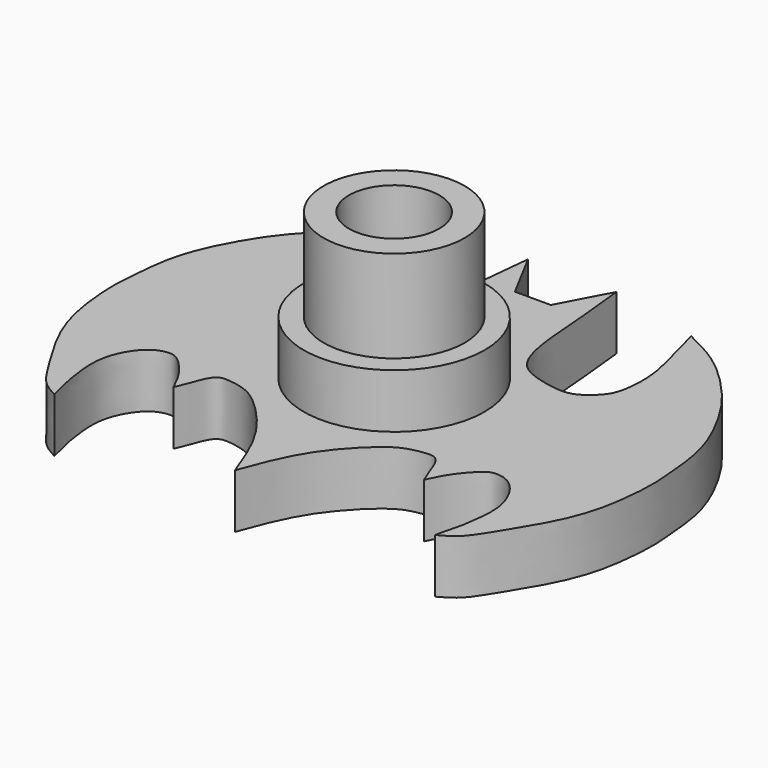
from build123d import *

# Parameters (mm, degrees)
F0_R     = 5
F0_R_2   = 3.9
F1_DEPTH = 3
F2_DEPTH = 8.1
F3_DEPTH = 3
F4_R     = 2.5
F5_DEPTH = 3


with BuildPart() as f1:
    # F0 (on Top) → F1 (new body)
    with BuildSketch(Plane.XY):
        with Locations((0, -2.1439613178)):
            Circle(F0_R)
        with Locations((0, -2.1439613178)):
            Circle(F0_R_2, mode=Mode.SUBTRACT)
    extrude(amount=F1_DEPTH)

    # F0 (on Top) → F2 (join)
    with BuildSketch(Plane.XY):
        with Locations((0, -2.1439613178)):
            Circle(F0_R_2)
    extrude(amount=F2_DEPTH)

    # F0 (on Top) → F3 (join)
    with BuildSketch(Plane.XY):
        with BuildLine():
            add(Edge.make_bspline(
                [(0, -13.1439613178), (-0.4294539751, -11.9775387571), (-1.2548602794, -9.7356860997), (-3.5882204359, -7.3421443207), (-4.6056022039, -6.8652228997), (-5.59644324, -6.6997209592), (-6.0842325755, -6.7992801193), (-6.421690631, -7.3785882809), (-6.6311064449, -8.0463387493), (-6.8279232365, -8.5005663065), (-6.9271689281, -8.7296124548)],
                knots=[0, 0, 0, 0, 0.2171058195, 0.4172752437, 0.53563, 0.6444835629, 0.719822669, 0.8078278946, 0.9030964109, 1, 1, 1, 1], degree=3))
            add(Edge.make_bspline(
                [(0, -13.1439613178), (0.4294539751, -11.9775387571), (1.2548602794, -9.7356860997), (3.5882204359, -7.3421443207), (4.6056022039, -6.8652228997), (5.59644324, -6.6997209592), (6.0842325755, -6.7992801193), (6.421690631, -7.3785882809), (6.6311064449, -8.0463387493), (6.8279232365, -8.5005663065), (6.9271689281, -8.7296124548)],
                knots=[0, 0, 0, 0, 0.2171058195, 0.4172752437, 0.53563, 0.6444835629, 0.719822669, 0.8078278946, 0.9030964109, 1, 1, 1, 1], degree=3))
            add(Edge.make_bspline(
                [(6.9271689281, -8.7296124548), (7.1134929089, -8.3372721452), (7.488074895, -7.5485190726), (8.4570919572, -6.4827882523), (8.9980930935, -6.2932991044), (9.9724452781, -6.500508657), (10.8727144612, -7.758835945), (11.1199759549, -9.1010536806), (10.9823923974, -10.2848723846), (10.8940956062, -10.9875703061), (10.6577894277, -11.9196458914), (10.5168074369, -12.4757289886)],
                knots=[0, 0, 0, 0, 0.1216263724, 0.2445152145, 0.3206449098, 0.4190590878, 0.5466636489, 0.6703863075, 0.7818957274, 0.8698773991, 1, 1, 1, 1], degree=3))
            add(Edge.make_bspline(
                [(10.5168074369, -12.4757289886), (10.8330415271, -12.3060597242), (11.5356636572, -11.9290814551), (12.4027841021, -10.4995830509), (13.8202863847, -8.2507010885), (14.6969099323, -5.9037420567), (14.9485923671, -2.9615572621), (14.8058853863, -1.7001553968), (14.6528648582, 0.4973066476), (13.9146408287, 2.5349021338), (12.9079496989, 4.3074721389), (12.007450278, 5.5740503409), (9.9193860193, 7.7805719205), (8.3232374896, 8.5668020048), (7.5443135574, 8.9504839852)],
                knots=[0, 0, 0, 0, 0.0601980873, 0.1337506285, 0.227468375, 0.3209737133, 0.4178805746, 0.483672317, 0.5673687583, 0.6536556499, 0.7343601906, 0.8066506333, 0.9056450912, 1, 1, 1, 1], degree=3))
            add(Edge.make_bspline(
                [(7.5443135574, 8.9504839852), (7.6389206925, 8.5695326115), (7.8498950971, 7.7200090611), (8.3840108509, 5.8505067231), (8.553692706, 4.5085870534), (8.4155164417, 2.9013441134), (7.9076420532, 2.173278469), (6.9587534427, 1.4073756699), (5.870671358, 1.4751366742), (4.8140044742, 1.7071195914), (3.6439890322, 2.1967111639), (2.9474881014, 3.8856367555), (2.7831740694, 7.0241541467), (2.5569931426, 9.1130622026), (2.4434023071, 10.1621374488)],
                knots=[0, 0, 0, 0, 0.0752703658, 0.1678533083, 0.247860274, 0.3303695231, 0.3931204941, 0.4642847146, 0.532640025, 0.6024355443, 0.6744187279, 0.7611198291, 0.8800314483, 1, 1, 1, 1], degree=3))
            add(Edge.make_bspline(
                [(2.4434023071, 10.1621374488), (1.959738244, 9.254644004), (1.4760741809, 8.3471505592), (0.9924101178, 7.4396571144)],
                knots=[0, 0, 0, 0, 3.0850085096, 3.0850085096, 3.0850085096, 3.0850085096], degree=3))
            add(Edge.make_bspline(
                [(0.9924101178, 7.4396571144), (0.6616067452, 7.4396571144), (0.3308033726, 7.4396571144), (0, 7.4396571144)],
                knots=[0, 0, 0, 0, 0.9924101178, 0.9924101178, 0.9924101178, 0.9924101178], degree=3))
            add(Edge.make_bspline(
                [(-0.9924101178, 7.4396571144), (-0.6616067452, 7.4396571144), (-0.3308033726, 7.4396571144), (0, 7.4396571144)],
                knots=[0, 0, 0, 0, 0.9924101178, 0.9924101178, 0.9924101178, 0.9924101178], degree=3))
            add(Edge.make_bspline(
                [(-2.4434023071, 10.1621374488), (-1.959738244, 9.254644004), (-1.4760741809, 8.3471505592), (-0.9924101178, 7.4396571144)],
                knots=[0, 0, 0, 0, 3.0850085096, 3.0850085096, 3.0850085096, 3.0850085096], degree=3))
            add(Edge.make_bspline(
                [(-7.5443135574, 8.9504839852), (-7.6389206925, 8.5695326115), (-7.8498950971, 7.7200090611), (-8.3840108509, 5.8505067231), (-8.553692706, 4.5085870534), (-8.4155164417, 2.9013441134), (-7.9076420532, 2.173278469), (-6.9587534427, 1.4073756699), (-5.870671358, 1.4751366742), (-4.8140044742, 1.7071195914), (-3.6439890322, 2.1967111639), (-2.9474881014, 3.8856367555), (-2.7831740694, 7.0241541467), (-2.5569931426, 9.1130622026), (-2.4434023071, 10.1621374488)],
                knots=[0, 0, 0, 0, 0.0752703658, 0.1678533083, 0.247860274, 0.3303695231, 0.3931204941, 0.4642847146, 0.532640025, 0.6024355443, 0.6744187279, 0.7611198291, 0.8800314483, 1, 1, 1, 1], degree=3))
            add(Edge.make_bspline(
                [(-10.5168074369, -12.4757289886), (-10.8330415271, -12.3060597242), (-11.5356636572, -11.9290814551), (-12.4027841021, -10.4995830509), (-13.8202863847, -8.2507010885), (-14.6969099323, -5.9037420567), (-14.9485923671, -2.9615572621), (-14.8058853863, -1.7001553968), (-14.6528648582, 0.4973066476), (-13.9146408287, 2.5349021338), (-12.9079496989, 4.3074721389), (-12.007450278, 5.5740503409), (-9.9193860193, 7.7805719205), (-8.3232374896, 8.5668020048), (-7.5443135574, 8.9504839852)],
                knots=[0, 0, 0, 0, 0.0601980873, 0.1337506285, 0.227468375, 0.3209737133, 0.4178805746, 0.483672317, 0.5673687583, 0.6536556499, 0.7343601906, 0.8066506333, 0.9056450912, 1, 1, 1, 1], degree=3))
            add(Edge.make_bspline(
                [(-6.9271689281, -8.7296124548), (-7.1134929089, -8.3372721452), (-7.488074895, -7.5485190726), (-8.4570919572, -6.4827882523), (-8.9980930935, -6.2932991044), (-9.9724452781, -6.500508657), (-10.8727144612, -7.758835945), (-11.1199759549, -9.1010536806), (-10.9823923974, -10.2848723846), (-10.8940956062, -10.9875703061), (-10.6577894277, -11.9196458914), (-10.5168074369, -12.4757289886)],
                knots=[0, 0, 0, 0, 0.1216263724, 0.2445152145, 0.3206449098, 0.4190590878, 0.5466636489, 0.6703863075, 0.7818957274, 0.8698773991, 1, 1, 1, 1], degree=3))
        make_face()
        with Locations((0, -2.1439613178)):
            Circle(F0_R, mode=Mode.SUBTRACT)
        with Locations((0, -2.1439613178)):
            Circle(F0_R)
        with Locations((0, -2.1439613178)):
            Circle(F0_R_2, mode=Mode.SUBTRACT)
        with Locations((0, -2.1439613178)):
            Circle(F0_R_2)
    extrude(amount=-F3_DEPTH)

    # F4 (on face) → F5 (cut)
    with BuildSketch(Plane.XY.offset(8.1)):
        with Locations((0, -2.1439613178)):
            Circle(F4_R)
    extrude(amount=-F5_DEPTH, mode=Mode.SUBTRACT)


solid = f1.part
